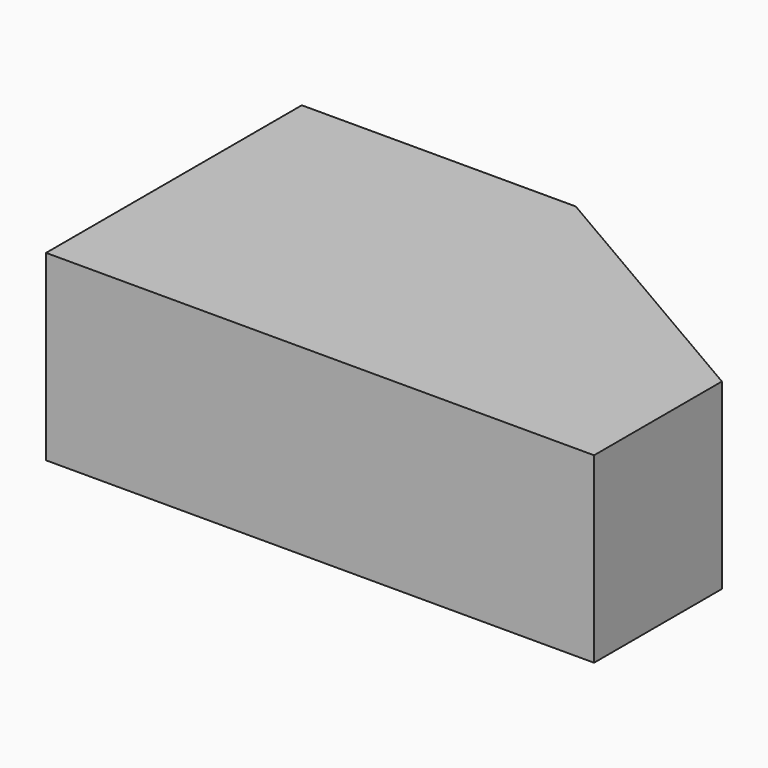
from build123d import *

# Parameters (mm, degrees)
F0_W     = 60
F0_H     = 35
F1_DEPTH = 20
F3_DEPTH = 20.001


with BuildPart() as f1:
    # F0 (on Top) → F1 (new body)
    with BuildSketch(Plane.XY):
        with Locations((30, 17.5)):
            Rectangle(F0_W, F0_H)
    extrude(amount=F1_DEPTH)

    # F2 (on face) → F3 (cut, through all)
    with BuildSketch(Plane.XY.offset(20)):
        Polygon((60, 35), (30, 35), (60, 17.5), align=None)
    extrude(amount=-F3_DEPTH, mode=Mode.SUBTRACT)


solid = f1.part
